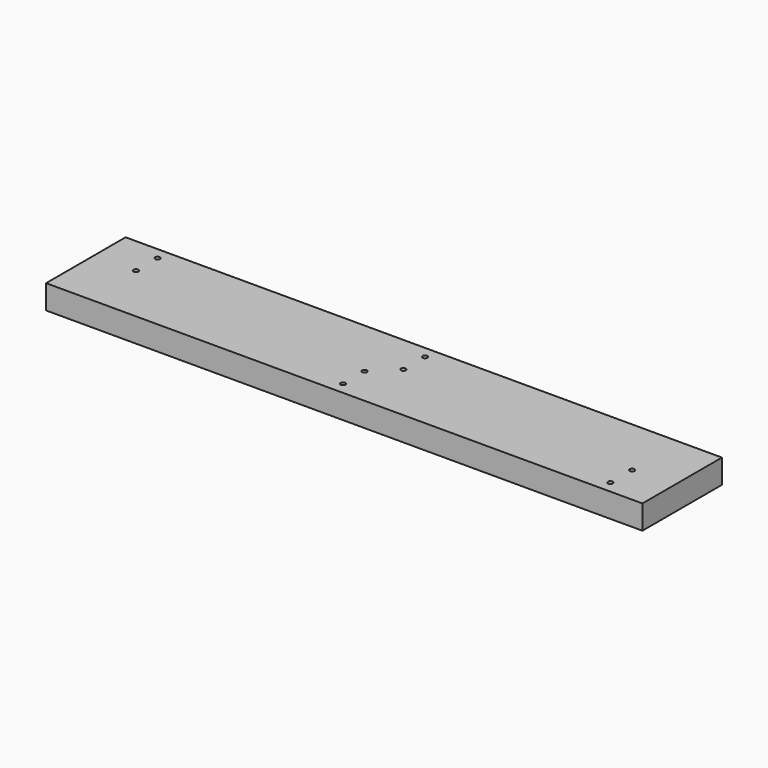
from build123d import *

# Parameters (mm, degrees)
F0_W     = 419.1
F0_H     = 69.85
F1_DEPTH = 16.891
F2_R     = 0.9906
F3_DEPTH = 8.382
F4_R     = 1.7145
F5_DEPTH = 25.4


with BuildPart() as f1:
    # F0 (on Top) → F1 (new body)
    with BuildSketch(Plane.XY):
        with Locations((209.55, 34.925)):
            Rectangle(F0_W, F0_H)
    extrude(amount=F1_DEPTH)

    # F2 (on face) → F3 (cut)
    with BuildSketch(Plane(origin=(0, 0, 0), x_dir=(1, 0, 0), z_dir=(0, 0, -1))):
        with Locations((379.73, -5.842)):
            Circle(F2_R)
        with Locations((379.73, -29.972)):
            Circle(F2_R)
        with Locations((227.33, -39.878)):
            Circle(F2_R)
        with Locations((227.33, -64.008)):
            Circle(F2_R)
        with Locations((39.37, -64.008)):
            Circle(F2_R)
        with Locations((191.77, -29.972)):
            Circle(F2_R)
        with Locations((39.37, -39.878)):
            Circle(F2_R)
        with Locations((191.77, -5.842)):
            Circle(F2_R)
    extrude(amount=-F3_DEPTH, mode=Mode.SUBTRACT)

    # F4 (on face) → F5 (cut)
    with BuildSketch(Plane(origin=(0, 0, 0), x_dir=(1, 0, 0), z_dir=(0, 0, -1))):
        with Locations((389.89, -8.382)):
            Circle(F4_R)
        with Locations((389.89, -27.432)):
            Circle(F4_R)
        with Locations((217.17, -42.418)):
            Circle(F4_R)
        with Locations((217.17, -61.468)):
            Circle(F4_R)
        with Locations((29.21, -42.418)):
            Circle(F4_R)
        with Locations((29.21, -61.468)):
            Circle(F4_R)
        with Locations((201.93, -27.432)):
            Circle(F4_R)
        with Locations((201.93, -8.382)):
            Circle(F4_R)
        with Locations((-173.99, -42.418)):
            Circle(F4_R)
        with Locations((-173.99, -61.468)):
            Circle(F4_R)
        with Locations((-377.19, -42.418)):
            Circle(F4_R)
        with Locations((-377.19, -61.468)):
            Circle(F4_R)
    extrude(amount=-F5_DEPTH, mode=Mode.SUBTRACT)


solid = f1.part
